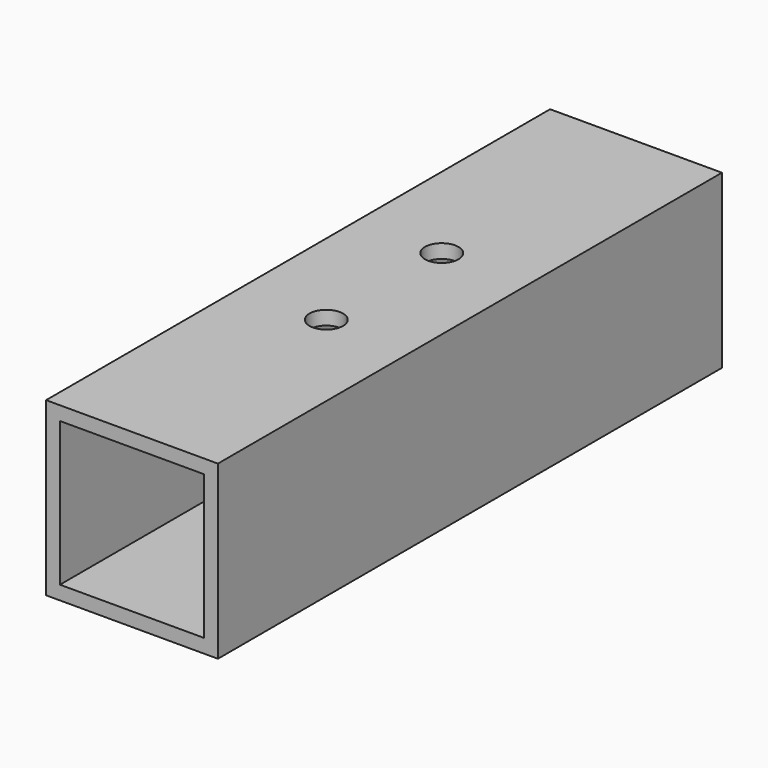
from build123d import *

# Parameters (mm, degrees)
F0_W     = 19.05
F0_H     = 19.05
F0_W_2   = 15.9766
F0_H_2   = 15.9766
F1_DEPTH = 69.85
F2_R     = 1.86055
F3_DEPTH = 19.05


with BuildPart() as f1:
    # F0 (on Front) → F1 (new body)
    with BuildSketch(Plane.XZ):
        Rectangle(F0_W, F0_H)
        Rectangle(F0_W_2, F0_H_2, mode=Mode.SUBTRACT)
    extrude(amount=F1_DEPTH)

    # F2 (on face) → F3 (cut, through all)
    with BuildSketch(Plane.XY.offset(9.525)):
        with Locations((0, -26.925)):
            Circle(F2_R)
        with Locations((0, -42.925)):
            Circle(F2_R)
    extrude(amount=-F3_DEPTH, mode=Mode.SUBTRACT)


solid = f1.part
